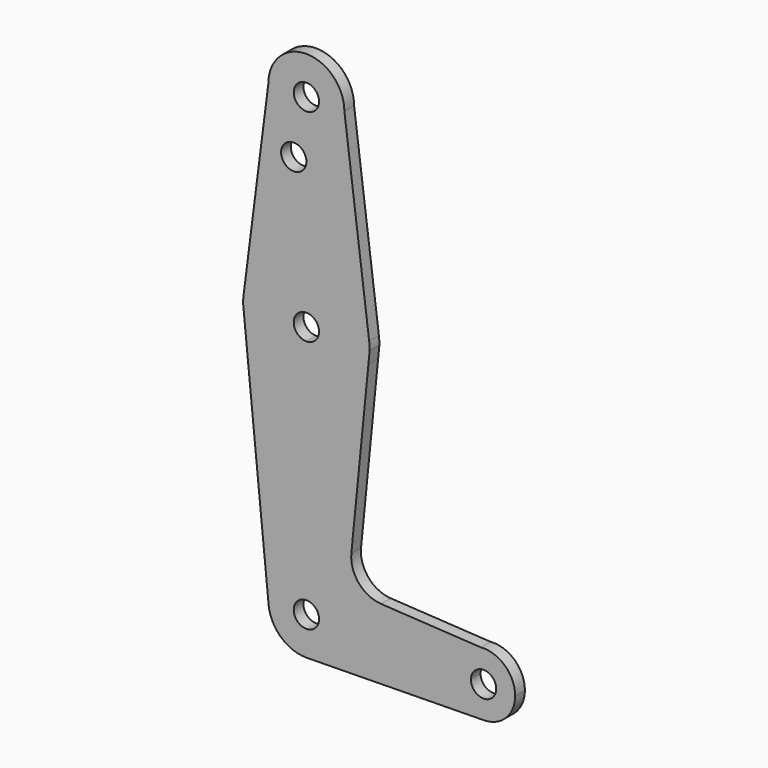
from build123d import *

# Parameters (mm, degrees)
F0_R     = 3.175
F1_DEPTH = 3.048


with BuildPart() as f1:
    # F0 (on Front) → F1 (new body)
    with BuildSketch(Plane.XZ):
        with BuildLine():
            ThreePointArc((-15.7474568922, 2.0082894282), (-9.07e-08, 15.875), (15.7474568693, 2.0082896081))
            Line((15.7474568693, 2.0082896081), (9.525, 50.8))
            ThreePointArc((9.525, 50.8), (0, 41.275), (-9.525, 50.8))
            Line((-9.525, 50.8), (-15.7474568922, 2.0082894282))
        make_face()
        with Locations((-3.175, 36.5252)):
            Circle(F0_R, mode=Mode.SUBTRACT)
        with BuildLine():
            Line((15.5652161214, -3.1208447723), (15.875, 0))
            ThreePointArc((15.875, 0), (15.8430821307, 1.0061677793), (15.7474568693, 2.0082896081))
            ThreePointArc((15.7474568693, 2.0082896081), (-9.07e-08, 15.875), (-15.7474568922, 2.0082894282))
            ThreePointArc((-15.7474568922, 2.0082894282), (-15.8430821364, 1.0061676888), (-15.875, 0))
            Line((-15.875, 0), (-15.5652161214, -3.1208447723))
            ThreePointArc((-15.5652161214, -3.1208447723), (-10.0616155323, -12.27923116), (0, -15.875))
            ThreePointArc((0, -15.875), (10.0616155323, -12.27923116), (15.5652161214, -3.1208447723))
        make_face()
        with BuildLine():
            ThreePointArc((3.175, 0), (2.2450640303, -2.2450640303), (0, -3.175))
            ThreePointArc((0, -3.175), (-2.2450640303, 2.2450640303), (3.175, 0))
        make_face(mode=Mode.SUBTRACT)
        with BuildLine():
            Line((0, -53.975), (0, -15.875))
            ThreePointArc((0, -15.875), (-10.0616155323, -12.27923116), (-15.5652161214, -3.1208447723))
            Line((-15.5652161214, -3.1208447723), (-9.4784185161, -64.440854629))
            ThreePointArc((-9.4784185161, -64.440854629), (-7.0600023138, -57.1060972537), (0, -53.975))
        make_face()
        with BuildLine():
            Line((11.2747917146, -46.343715644), (15.5652161214, -3.1208447723))
            ThreePointArc((15.5652161214, -3.1208447723), (10.0616155323, -12.27923116), (0, -15.875))
            Line((0, -15.875), (0, -53.975))
            ThreePointArc((0, -53.975), (6.7351920908, -56.7648079092), (9.525, -63.5))
            ThreePointArc((9.525, -63.5), (9.5244664964, -63.6008114997), (9.5228660455, -63.7016117062))
            Line((9.5228660455, -63.7016117062), (36.504319841, -64.2728448738))
            ThreePointArc((36.504319841, -64.2728448738), (38.6692897839, -58.9908701927), (43.8189594995, -56.5276907016))
            Line((43.8189594995, -56.5276907016), (18.723753564, -55.0657596202))
            ThreePointArc((18.723753564, -55.0657596202), (13.14060642, -52.2921102475), (11.2747917146, -46.343715644))
        make_face()
        with BuildLine():
            Line((36.504319841, -64.2728448738), (9.5228660455, -63.7016117062))
            ThreePointArc((9.5228660455, -63.7016117062), (6.7617233528, -70.2085559028), (0.2767781225, -73.0209778317))
            Line((0.2767781225, -73.0209778317), (44.5553779398, -72.3775166331))
            ThreePointArc((44.5553779398, -72.3775166331), (38.8087865627, -70.034857987), (36.504319841, -64.2728448738))
        make_face()
        with BuildLine():
            Line((0, -60.325), (0, -53.975))
            ThreePointArc((0, -53.975), (-7.0600023138, -57.1060972537), (-9.4784185161, -64.440854629))
            ThreePointArc((-9.4784185161, -64.440854629), (-6.3939027463, -70.5600023138), (0, -73.025))
            Line((0, -73.025), (0.2767781225, -73.0209778317))
            ThreePointArc((0.2767781225, -73.0209778317), (6.7617233528, -70.2085559028), (9.5228660455, -63.7016117062))
            Line((9.5228660455, -63.7016117062), (3.1742886818, -63.5672039021))
            ThreePointArc((3.1742886818, -63.5672039021), (-2.2686997806, -65.7211767839), (0, -60.325))
        make_face()
        with BuildLine():
            ThreePointArc((9.525, -63.5), (6.7351920908, -56.7648079092), (0, -53.975))
            Line((0, -53.975), (0, -60.325))
            ThreePointArc((0, -60.325), (2.2450640303, -61.2549359697), (3.175, -63.5))
            ThreePointArc((3.175, -63.5), (3.1748221655, -63.5336038332), (3.1742886818, -63.5672039021))
            Line((3.1742886818, -63.5672039021), (9.5228660455, -63.7016117062))
            ThreePointArc((9.5228660455, -63.7016117062), (9.5244664964, -63.6008114997), (9.525, -63.5))
        make_face()
        with BuildLine():
            ThreePointArc((52.3775415455, -64.440854629), (49.8286437534, -58.6127440866), (43.8189594995, -56.5276907016))
            ThreePointArc((43.8189594995, -56.5276907016), (38.6692897839, -58.9908701927), (36.504319841, -64.2728448738))
            ThreePointArc((36.504319841, -64.2728448738), (38.8087865627, -70.034857987), (44.5553779398, -72.3775166331))
            ThreePointArc((44.5553779398, -72.3775166331), (50.0933321306, -70.012587915), (52.3775415455, -64.440854629))
        make_face()
        with BuildLine():
            ThreePointArc((47.6150415455, -64.440854629), (44.4064377123, -67.6156767945), (41.2657528637, -64.373650727))
            ThreePointArc((41.2657528637, -64.373650727), (44.4736453787, -61.2660324636), (47.6150415455, -64.440854629))
        make_face(mode=Mode.SUBTRACT)
        with BuildLine():
            ThreePointArc((-9.525, 50.8), (0, 41.275), (9.525, 50.8))
            ThreePointArc((9.525, 50.8), (0, 60.325), (-9.525, 50.8))
        make_face()
        with Locations((0, 50.8)):
            Circle(F0_R, mode=Mode.SUBTRACT)
    extrude(amount=F1_DEPTH)


solid = f1.part
